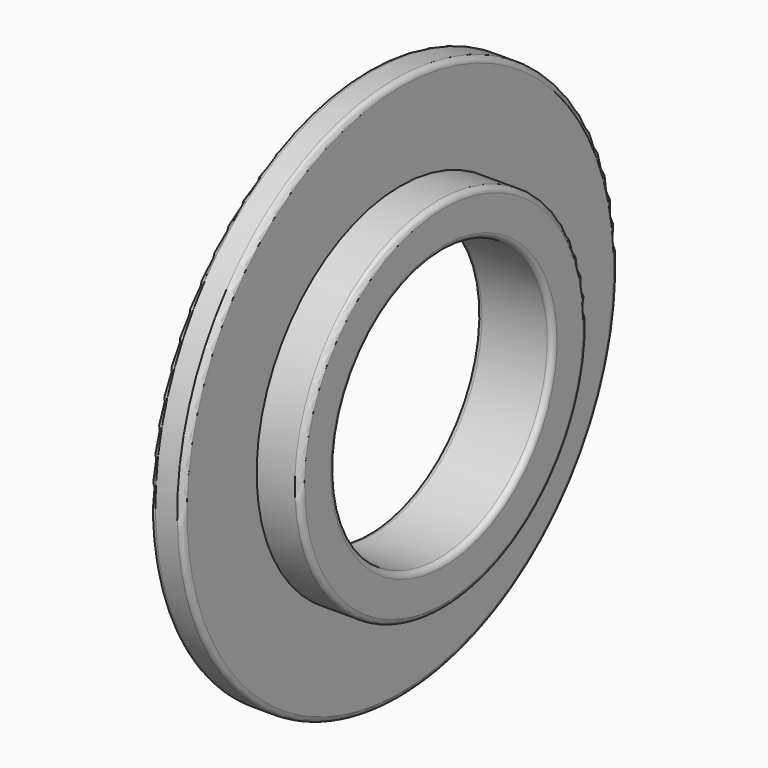
from build123d import *

# Parameters (mm, degrees)
F2_R = 0.5


with BuildPart() as f1:
    # F0 (on Front) → F1 (revolve)
    with BuildSketch(Plane.XZ):
        Polygon((0, 25), (0, 12.5), (7, 12.5), (7, 16.5), (3, 16.5), (3, 25), align=None)
    revolve(axis=Axis((-1.722148, 0, 0), (1, 0, 0)))

    # F2
    f2_edges = [f1.edges().sort_by_distance(p)[0] for p in [
        (0, 0, -25),
        (3, 0, -25),
        (7, 0, -16.5),
        (7, 0, -12.5),
        (0, 0, -12.5),
    ]]
    fillet(f2_edges, radius=F2_R)


solid = f1.part
